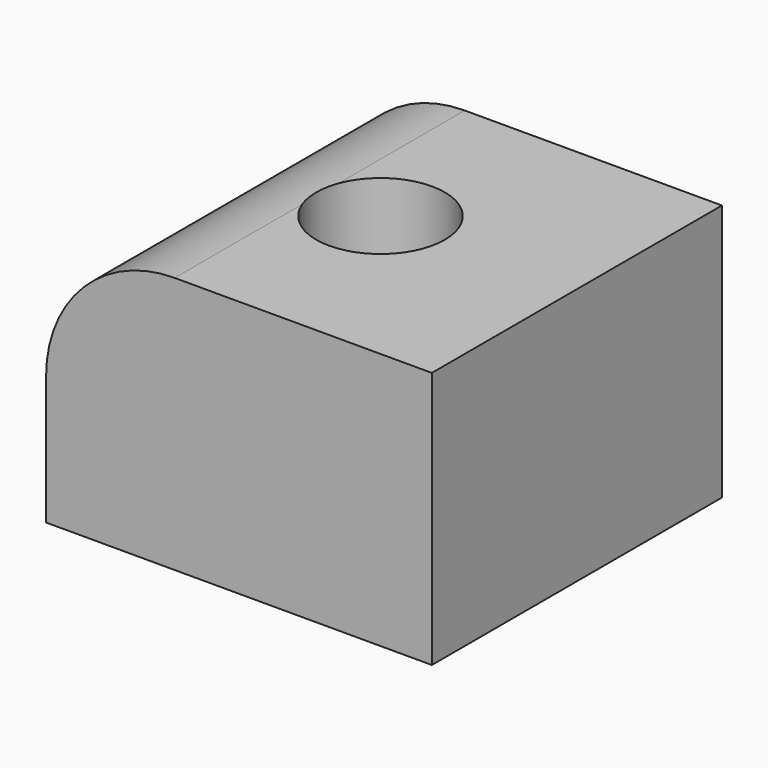
from build123d import *

# Parameters (mm, degrees)
F1_DEPTH = 71.628
F2_R     = 12.7
F3_DEPTH = 50.801


with BuildPart() as f1:
    # F0 (on Front) → F1 (new body)
    with BuildSketch(Plane.XZ):
        with BuildLine():
            Line((-76.2, 0), (0, 0))
            Line((0, 0), (0, 50.8))
            Line((0, 50.8), (-50.8, 50.8))
            ThreePointArc((-50.8, 50.8), (-68.760512, 43.360512), (-76.2, 25.4))
            Line((-76.2, 25.4), (-76.2, 0))
        make_face()
    extrude(amount=F1_DEPTH)

    # F2 (on face) → F3 (cut, through all)
    with BuildSketch(Plane(origin=(0, 0, 0), x_dir=(1, 0, 0), z_dir=(0, 0, -1))):
        with Locations((-38.918827, 35.650235)):
            Circle(F2_R)
    extrude(amount=-F3_DEPTH, mode=Mode.SUBTRACT)


solid = f1.part
